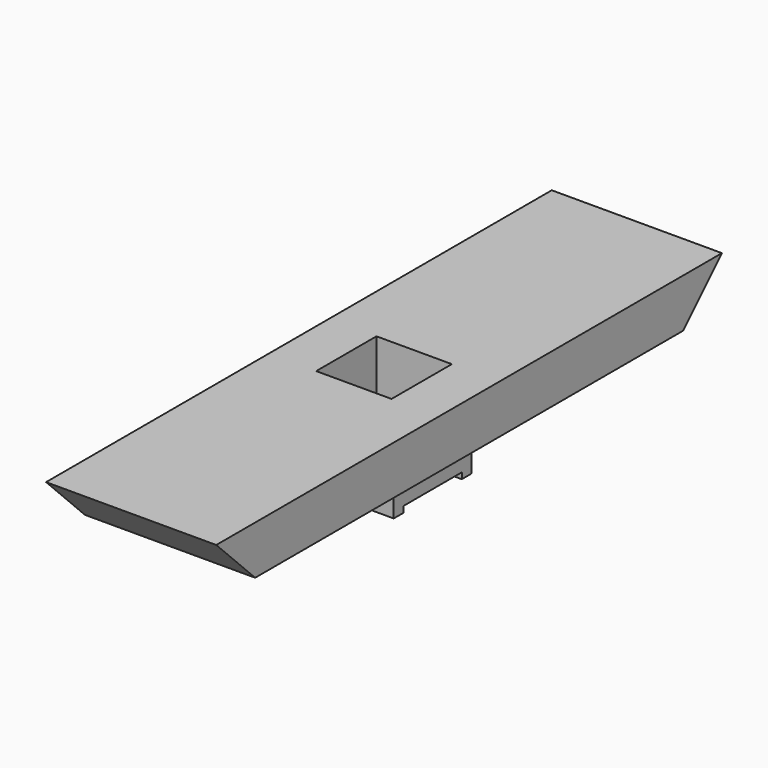
from build123d import *

# Parameters (mm, degrees)
F0_W      = 50.8
F0_H      = 50.8
F0_W_2    = 39.37
F0_H_2    = 39.37
F1_DEPTH  = 25.4
F2_R      = 6.985
F3_DEPTH  = 50.801
F4_W      = 88.9
F4_H      = 279.4
F4_W_2    = 39.37
F4_H_2    = 39.37
F5_DEPTH  = 25.4
F6_W      = 76.2
F6_H      = 101.6
F7_DEPTH  = 3.175
F8_W      = 69.85
F8_H      = 101.6
F9_DEPTH  = 17.145
F10_W     = 69.85
F10_H     = 101.6
F11_DEPTH = 17.145
F12_W     = 38.1
F12_H     = 3.175
F13_DEPTH = 69.851
F15_DEPTH = 88.9


with BuildPart() as f1:
    # F0 (on Top) → F1 (new body)
    with BuildSketch(Plane.XY):
        Rectangle(F0_W, F0_H)
        Rectangle(F0_W_2, F0_H_2, mode=Mode.SUBTRACT)
    extrude(amount=F1_DEPTH)

    # F2 (on face) → F3 (cut, through all)
    with BuildSketch(Plane.XZ.offset(25.4)):
        with Locations((0, 12.7)):
            Circle(F2_R)
    extrude(amount=-F3_DEPTH, mode=Mode.SUBTRACT)

    # F4 (on face) → F5 (join)
    with BuildSketch(Plane.XY.offset(25.4)):
        Rectangle(F4_W, F4_H)
        Rectangle(F4_W_2, F4_H_2, mode=Mode.SUBTRACT)
    extrude(amount=F5_DEPTH)

    # F6 (on face) → F7 (cut)
    with BuildSketch(Plane(origin=(0, 0, 25.4), x_dir=(1, 0, 0), z_dir=(0, 0, -1))):
        with Locations((0, -82.55)):
            Rectangle(F6_W, F6_H)
        with Locations((0, 82.55)):
            Rectangle(F6_W, F6_H)
    extrude(amount=-F7_DEPTH, mode=Mode.SUBTRACT)

    # F8 (on face) → F9 (cut)
    with BuildSketch(Plane(origin=(0, 0, 28.575), x_dir=(1, 0, 0), z_dir=(0, 0, -1))):
        with Locations((0, -82.55)):
            Rectangle(F8_W, F8_H)
    extrude(amount=-F9_DEPTH, mode=Mode.SUBTRACT)

    # F10 (on face) → F11 (cut)
    with BuildSketch(Plane(origin=(0, 0, 28.575), x_dir=(1, 0, 0), z_dir=(0, 0, -1))):
        with Locations((0, 82.55)):
            Rectangle(F10_W, F10_H)
    extrude(amount=-F11_DEPTH, mode=Mode.SUBTRACT)

    # F12 (on face) → F13 (cut, through all)
    with BuildSketch(Plane.YZ.offset(25.4)):
        with Locations((0, 1.5875)):
            Rectangle(F12_W, F12_H)
    extrude(amount=-F13_DEPTH, mode=Mode.SUBTRACT)

    # F14 (on face) → F15 (join, through all)
    with BuildSketch(Plane.YZ.offset(44.45)):
        Polygon((-139.7, 25.4), (-139.7, 50.8), (-165.1, 50.8), align=None)
        Polygon((139.7, 50.8), (139.7, 25.4), (165.1, 50.8), align=None)
    extrude(amount=-F15_DEPTH)


solid = f1.part
